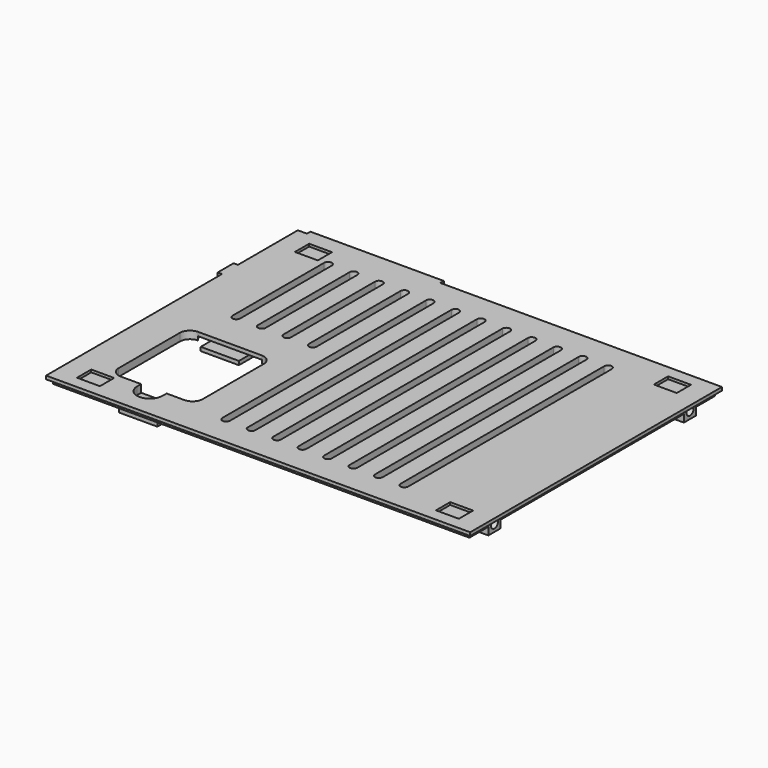
from build123d import *

# Parameters (mm, degrees)
SKETCH019_W     = 163.6
SKETCH019_H     = 120.6
PAD003_DEPTH    = 3
SKETCH020_W     = 52.43
SKETCH020_H     = 4
PAD004_DEPTH    = 3
SKETCH021_W     = 52.43
SKETCH021_H     = 3
PAD005_DEPTH    = 8.4
SKETCH025_W     = 3.21
SKETCH025_H     = 7.8
PAD006_DEPTH    = 11.9
SKETCH026_W     = 7.8
SKETCH026_H     = 7.2
POCKET019_DEPTH = 2
SKETCH027_R     = 4
POCKET020_DEPTH = 5
SKETCH028_W     = 8
SKETCH028_H     = 6
SKETCH028_H_2   = 6.904
PAD007_DEPTH    = 6
SKETCH029_R     = 1.8
POCKET021_DEPTH = 8
SKETCH030_R     = 1.8
POCKET022_DEPTH = 8
POCKET027_DEPTH = 5
SKETCH036_W     = 15
SKETCH036_H     = 1.5
PAD008_DEPTH    = 5
SKETCH037_W     = 6
SKETCH037_H     = 5
POCKET028_DEPTH = 1.5
SKETCH038_W     = 15
SKETCH038_H     = 7
PAD009_DEPTH    = 5
POCKET029_DEPTH = 3
SKETCH040_R     = 1.8
POCKET030_DEPTH = 5
POCKET031_DEPTH = 5
SKETCH042_W     = 9
SKETCH042_H     = 7
POCKET032_DEPTH = 1
SKETCH050_W     = 166.6
SKETCH050_H     = 123.6
SKETCH050_W_2   = 163.6
SKETCH050_H_2   = 120
PAD014_DEPTH    = 1.3


with BuildPart() as part:
    # Sketch019 → Pad003 (new body)
    with BuildSketch(Plane.XY):
        with Locations((-8, 0)):
            Rectangle(SKETCH019_W, SKETCH019_H)
    extrude(amount=PAD003_DEPTH)

    # Sketch020 (on Face6 of Pad003) → Pad004 (join)
    with BuildSketch(Plane.XY.offset(3)):
        with Locations((-61.515, 61.5)):
            Rectangle(SKETCH020_W, SKETCH020_H)
    extrude(amount=-PAD004_DEPTH)

    # Sketch021 (on Face10 of Pad004) → Pad005 (join)
    with BuildSketch(Plane.XY.offset(3)):
        with Locations((-61.515, 62)):
            Rectangle(SKETCH021_W, SKETCH021_H)
    extrude(amount=-PAD005_DEPTH)

    # Sketch025 (on Face4 of Pad005) → Pad006 (join)
    with BuildSketch(Plane.XY.offset(3)):
        with Locations((-91.395, 28.5)):
            Rectangle(SKETCH025_W, SKETCH025_H)
    extrude(amount=-PAD006_DEPTH)

    # Sketch026 (on Face11 of Pad006) → Pocket019 (cut)
    with BuildSketch(Plane(origin=(-93, 0, 0), x_dir=(0, -1, 0), z_dir=(-1, 0, 0))):
        with Locations((-28.5, -5.4)):
            Rectangle(SKETCH026_W, SKETCH026_H)
    extrude(amount=-POCKET019_DEPTH, mode=Mode.SUBTRACT)

    # Sketch027 (on Face19 of Pocket019) → Pocket020 (cut)
    with BuildSketch(Plane(origin=(-91, 0, 0), x_dir=(0, -1, 0), z_dir=(-1, 0, 0))):
        with Locations((-28.5, -9)):
            Circle(SKETCH027_R)
    extrude(amount=-POCKET020_DEPTH, mode=Mode.SUBTRACT)

    # Sketch028 (on Face4 of Pocket020) → Pad007 (join)
    with BuildSketch(Plane.XY.offset(3)):
        with Locations((-85.8, 48)):
            Rectangle(SKETCH028_W, SKETCH028_H)
        with Locations((-85.8, -48.452)):
            Rectangle(SKETCH028_W, SKETCH028_H_2)
        with Locations((69.8, -48)):
            Rectangle(SKETCH028_W, SKETCH028_H)
        with Locations((69.8, 48)):
            Rectangle(SKETCH028_W, SKETCH028_H)
    extrude(amount=-PAD007_DEPTH)

    # Sketch029 (on Face36 of Pad007) → Pocket021 (cut)
    with BuildSketch(Plane.YZ.offset(73.8)):
        with Locations((48, 0)):
            Circle(SKETCH029_R)
        with Locations((-48, 0)):
            Circle(SKETCH029_R)
    extrude(amount=-POCKET021_DEPTH, mode=Mode.SUBTRACT)

    # Sketch030 (on Face12 of Pocket021) → Pocket022 (cut)
    with BuildSketch(Plane(origin=(-89.8, 0, 0), x_dir=(0, -1, 0), z_dir=(-1, 0, 0))):
        with Locations((48, 0)):
            Circle(SKETCH030_R)
        with Locations((-48, 0)):
            Circle(SKETCH030_R)
    extrude(amount=-POCKET022_DEPTH, mode=Mode.SUBTRACT)

    # Sketch035 (on Face4 of Pocket022) → Pocket027 (cut)
    with BuildSketch(Plane.XY.offset(3)):
        with BuildLine():
            Line((-77, -14), (-77, -44))
            ThreePointArc((-77, -44), (-75.828427, -46.828427), (-73, -48))
            Line((-73, -48), (-48, -48))
            ThreePointArc((-48, -48), (-45.171573, -46.828427), (-44, -44))
            Line((-44, -44), (-44, -14))
            ThreePointArc((-44, -14), (-45.171573, -11.171573), (-48, -10))
            Line((-48, -10), (-73, -10))
            ThreePointArc((-73, -10), (-75.828427, -11.171573), (-77, -14))
        make_face()
    extrude(amount=-POCKET027_DEPTH, mode=Mode.SUBTRACT)

    # Sketch036 (on Face33 of Pocket027) → Pad008 (join)
    with BuildSketch(Plane.XZ.offset(10)):
        with Locations((-60.5, 0.75)):
            Rectangle(SKETCH036_W, SKETCH036_H)
    extrude(amount=PAD008_DEPTH)

    # Sketch037 (on Face56 of Pad008) → Pocket028 (cut)
    with BuildSketch(Plane(origin=(0, 0, 0), x_dir=(1, 0, 0), z_dir=(0, 0, -1))):
        with Locations((-71, 7.5)):
            Rectangle(SKETCH037_W, SKETCH037_H)
        with Locations((-50, 7.5)):
            Rectangle(SKETCH037_W, SKETCH037_H)
    extrude(amount=-POCKET028_DEPTH, mode=Mode.SUBTRACT)

    # Sketch038 (on Face2 of Pocket028) → Pad009 (join)
    with BuildSketch(Plane(origin=(0, 0, 0), x_dir=(1, 0, 0), z_dir=(0, 0, -1))):
        with Locations((-60.5, 51.5)):
            Rectangle(SKETCH038_W, SKETCH038_H)
    extrude(amount=PAD009_DEPTH)

    # Sketch039 (on Face4 of Pad009) → Pocket029 (cut)
    with BuildSketch(Plane.XY.offset(3)):
        with BuildLine():
            ThreePointArc((-65, -50), (-60, -55), (-55, -50))
            Line((-55, -48), (-55, -50))
            Line((-65, -48), (-55, -48))
            Line((-65, -50), (-65, -48))
        make_face()
    extrude(amount=-POCKET029_DEPTH, mode=Mode.SUBTRACT)

    # Sketch040 (on Face72 of Pocket029) → Pocket030 (cut)
    with BuildSketch(Plane.XY):
        with Locations((-60, -51)):
            Circle(SKETCH040_R)
    extrude(amount=-POCKET030_DEPTH, mode=Mode.SUBTRACT)

    # Sketch041 (on Face2 of Pocket030) → Pocket031 (cut)
    with BuildSketch(Plane(origin=(0, 0, 0), x_dir=(1, 0, 0), z_dir=(0, 0, -1))):
        with BuildLine():
            ThreePointArc((-28.5, 50), (-30, 51.5), (-31.5, 50))
            Line((-31.5, 50), (-31.5, -50))
            ThreePointArc((-31.5, -50), (-30, -51.5), (-28.5, -50))
            Line((-28.5, -50), (-28.5, 50))
        make_face()
        with BuildLine():
            ThreePointArc((-18.5, 50), (-20, 51.5), (-21.5, 50))
            Line((-21.5, 50), (-21.5, -50))
            ThreePointArc((-21.5, -50), (-20, -51.5), (-18.5, -50))
            Line((-18.5, -50), (-18.5, 50))
        make_face()
        with BuildLine():
            ThreePointArc((-8.5, 50), (-10, 51.5), (-11.5, 50))
            Line((-11.5, 50), (-11.5, -50))
            ThreePointArc((-11.5, -50), (-10, -51.5), (-8.5, -50))
            Line((-8.5, -50), (-8.5, 50))
        make_face()
        with BuildLine():
            ThreePointArc((1.5, 50), (0, 51.5), (-1.5, 50))
            Line((-1.5, 50), (-1.5, -50))
            ThreePointArc((-1.5, -50), (0, -51.5), (1.5, -50))
            Line((1.5, -50), (1.5, 50))
        make_face()
        with BuildLine():
            ThreePointArc((11.5, 50), (10, 51.5), (8.5, 50))
            Line((8.5, 50), (8.5, -50))
            ThreePointArc((8.5, -50), (10, -51.5), (11.5, -50))
            Line((11.5, -50), (11.5, 50))
        make_face()
        with BuildLine():
            ThreePointArc((21.5, 50), (20, 51.5), (18.5, 50))
            Line((18.5, 50), (18.5, -50))
            ThreePointArc((18.5, -50), (20, -51.5), (21.5, -50))
            Line((21.5, -50), (21.5, 50))
        make_face()
        with BuildLine():
            ThreePointArc((31.5, 50), (30, 51.5), (28.5, 50))
            Line((28.5, 50), (28.5, -50))
            ThreePointArc((28.5, -50), (30, -51.5), (31.5, -50))
            Line((31.5, 50), (31.5, -50))
        make_face()
        with BuildLine():
            ThreePointArc((41.5, 50), (40, 51.5), (38.5, 50))
            Line((38.5, 50), (38.5, -50))
            ThreePointArc((38.5, -50), (40, -51.5), (41.5, -50))
            Line((41.5, -50), (41.5, 50))
        make_face()
        with BuildLine():
            ThreePointArc((-41.5, -50), (-40, -51.5), (-38.5, -50))
            Line((-38.5, -5), (-38.5, -50))
            ThreePointArc((-38.5, -5), (-40, -3.5), (-41.5, -5))
            Line((-41.5, -5), (-41.5, -50))
        make_face()
        with BuildLine():
            ThreePointArc((-51.5, -50), (-50, -51.5), (-48.5, -50))
            Line((-48.5, -5), (-48.5, -50))
            ThreePointArc((-48.5, -5), (-50, -3.5), (-51.5, -5))
            Line((-51.5, -5), (-51.5, -50))
        make_face()
        with BuildLine():
            ThreePointArc((-61.5, -50), (-60, -51.5), (-58.5, -50))
            Line((-58.5, -5), (-58.5, -50))
            ThreePointArc((-58.5, -5), (-60, -3.5), (-61.5, -5))
            Line((-61.5, -5), (-61.5, -50))
        make_face()
        with BuildLine():
            ThreePointArc((-71.5, -50), (-70, -51.5), (-68.5, -50))
            Line((-68.5, -5), (-68.5, -50))
            ThreePointArc((-68.5, -5), (-70, -3.5), (-71.5, -5))
            Line((-71.5, -5), (-71.5, -50))
        make_face()
    extrude(amount=-POCKET031_DEPTH, mode=Mode.SUBTRACT)

    # Sketch042 (on Face4 of Pocket031) → Pocket032 (cut)
    with BuildSketch(Plane.XY.offset(3)):
        with Locations((-78.5, 53.5)):
            Rectangle(SKETCH042_W, SKETCH042_H)
        with Locations((62.5, 53.5)):
            Rectangle(SKETCH042_W, SKETCH042_H)
        with Locations((62.5, -53.5)):
            Rectangle(SKETCH042_W, SKETCH042_H)
        with Locations((-78.5, -53.5)):
            Rectangle(SKETCH042_W, SKETCH042_H)
    extrude(amount=-POCKET032_DEPTH, mode=Mode.SUBTRACT)

    # Sketch050 (on Face4 of Pocket032) → Pad014 (join)
    with BuildSketch(Plane.XY.offset(3)):
        with Locations((-8, 0)):
            Rectangle(SKETCH050_W, SKETCH050_H)
        with Locations((-8, 0)):
            Rectangle(SKETCH050_W_2, SKETCH050_H_2, mode=Mode.SUBTRACT)
    extrude(amount=-PAD014_DEPTH)


with BuildPart() as part_1:
    # Body001 placement: moved
    add(part.part.moved(Location((0, 0, 35))))


solid = part_1.part
